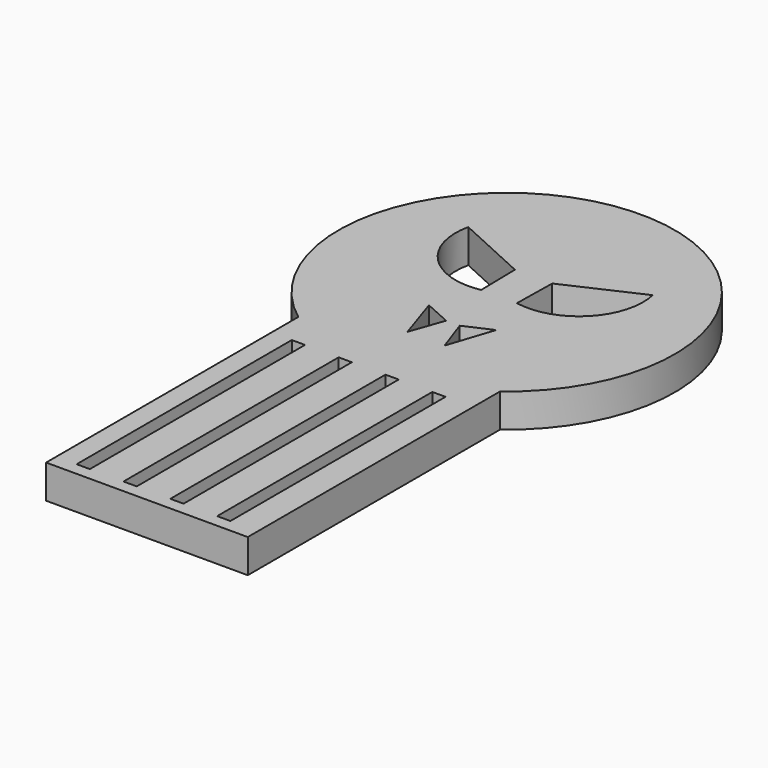
from build123d import *

# Parameters (mm, degrees)
PAD_DEPTH       = 10
SKETCH001_W     = 3.935465
SKETCH001_H     = 80.004486
POCKET_DEPTH    = 10.001
POCKET001_DEPTH = 10.001


with BuildPart() as part:
    # Sketch → Pad (new body)
    with BuildSketch(Plane.XY):
        with BuildLine():
            ThreePointArc((30, -40), (0, 50), (-30, -40))
            Line((-30, -133.787827), (-30, -40))
            Line((30, -133.787827), (-30, -133.787827))
            Line((30, -40), (30, -133.787827))
        make_face()
        with BuildLine():
            Line((5.320689, -2.850805), (5.546297, 10))
            Line((5.546297, 10), (27.430071, 20))
            ThreePointArc((5.320689, -2.850805), (22.53342, 2.616363), (27.430071, 20))
        make_face(mode=Mode.SUBTRACT)
        with BuildLine():
            Line((-5.320689, -2.850805), (-5.546297, 10))
            Line((-5.546297, 10), (-27.430071, 20))
            ThreePointArc((-27.430071, 20), (-22.53342, 2.616363), (-5.320689, -2.850805))
        make_face(mode=Mode.SUBTRACT)
    extrude(amount=PAD_DEPTH)

    # Sketch001 → Pocket (cut, through all)
    with BuildSketch(Plane.XY.offset(10)):
        with Locations((-21.967733, -90.002243)):
            Rectangle(SKETCH001_W, SKETCH001_H)
        with Locations((-8.032267, -90.002243)):
            Rectangle(SKETCH001_W, SKETCH001_H)
        with Locations((5.903197, -90.002243)):
            Rectangle(SKETCH001_W, SKETCH001_H)
        with Locations((19.838662, -90.002243)):
            Rectangle(SKETCH001_W, SKETCH001_H)
    extrude(amount=-POCKET_DEPTH, mode=Mode.SUBTRACT)

    # Sketch002 → Pocket001 (cut, through all)
    with BuildSketch(Plane.XY.offset(10)):
        Polygon((-10, -16.418013), (-2.0219, -20), (-5.526516, -30), align=None)
        Polygon((10, -16.418013), (2.0219, -20), (5.526516, -30), align=None)
    extrude(amount=-POCKET001_DEPTH, mode=Mode.SUBTRACT)


solid = part.part
